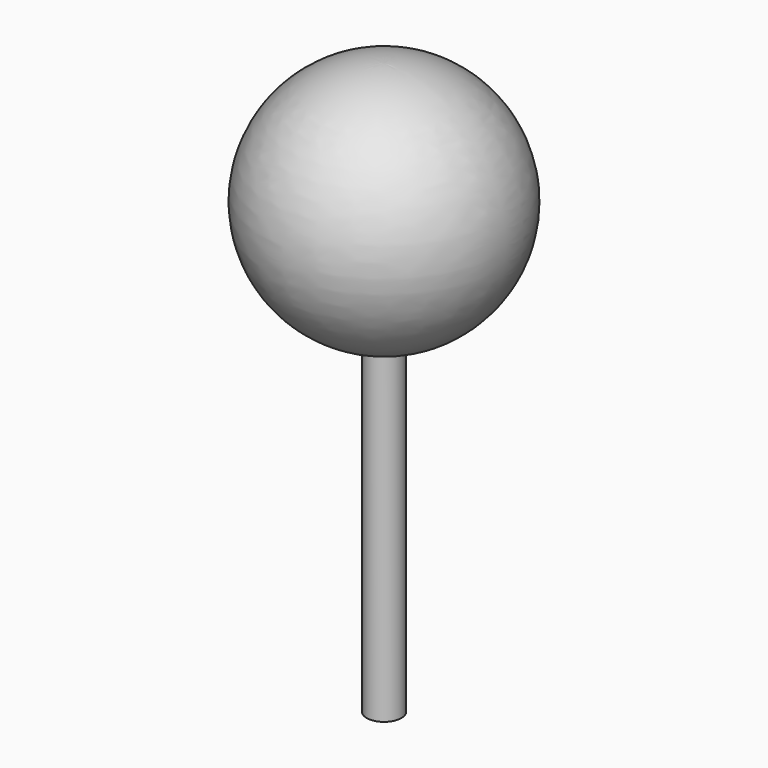
from build123d import *


with BuildPart() as f1:
    # F0 (on Front) → F1 (revolve)
    with BuildSketch(Plane.XZ):
        with BuildLine():
            Line((2, -51.818155), (2, -13.856406))
            ThreePointArc((2, -13.856406), (13.964055, 1.002574), (0, 14))
            Line((0, 14), (0, -51.818155))
            Line((0, -51.818155), (2, -51.818155))
        make_face()
    revolve(axis=Axis((0, 0, -15.398094), (0, 0, -1)))


solid = f1.part
